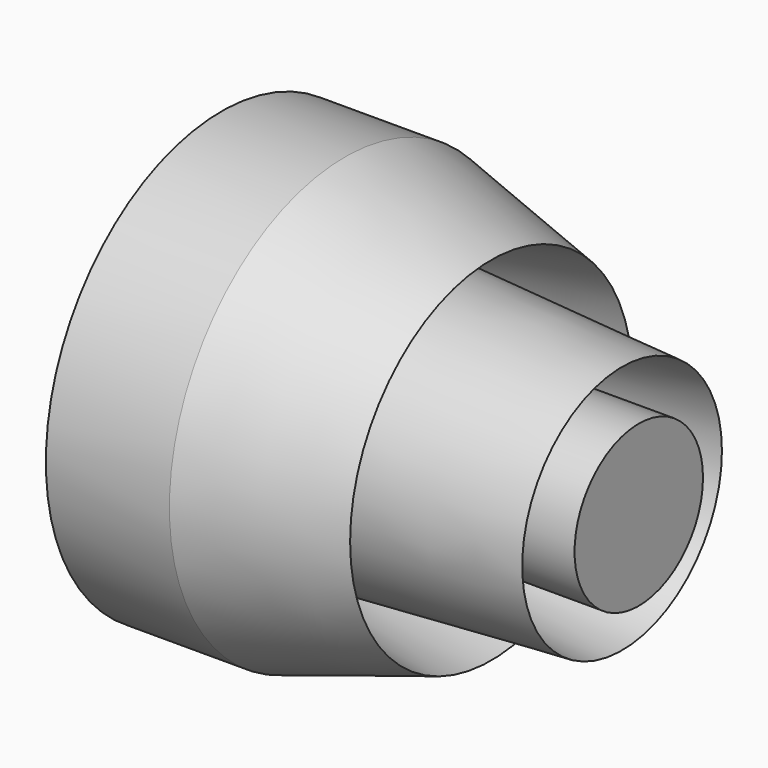
from build123d import *


with BuildPart() as f1:
    # F0 (on Top) → F1 (revolve)
    with BuildSketch(Plane.XY):
        Polygon((0, 65.407619), (0, 0), (124.349311, 0), (124.349311, 23.917902), (18.135631, 23.917902), (119.370535, 37.194613), (26.018675, 43.003172), (80.370203, 52.545805), (36.805999, 65.407619), align=None)
    revolve(axis=Axis((62.174655, 0, 0), (-1, 0, 0)))


solid = f1.part
